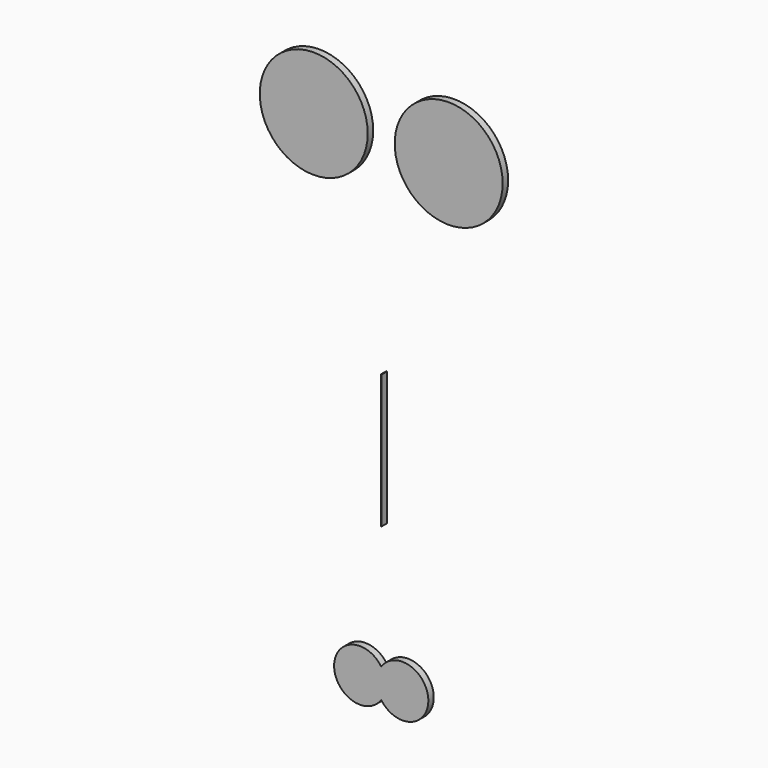
from build123d import *

# Parameters (mm, degrees)
F1_DEPTH = 25.4
F0_R     = 200.3467300335


with BuildPart() as f1:
    # F0 (on Front) → F1 (new body)
    with BuildSketch(Plane.XZ):
        with BuildLine():
            Line((1.5, -804.4493416321), (1.5, -308.3547353745))
            Line((1.5, -308.3547353745), (0, -308.3547353745))
            Line((0, -308.3547353745), (0, -804.4049214977))
            ThreePointArc((0, -804.4049214977), (0.7501190381, -804.4231118309), (1.5, -804.4493416321))
        make_face()
        with BuildLine():
            Line((0, -804.4049214977), (0, -308.3547353745))
            Line((0, -308.3547353745), (-1.5, -308.3547353745))
            Line((-1.5, -308.3547353745), (-1.5, -804.4493416321))
            ThreePointArc((-1.5, -804.4493416321), (-0.7501190381, -804.4231118309), (0, -804.4049214977))
        make_face()
    extrude(amount=F1_DEPTH)


with BuildPart() as f1b:
    # F0 (on Front) → F1, piece 2 (new body)
    with BuildSketch(Plane.XZ):
        with Locations((250.4261732101, 462.4638855457)):
            Circle(F0_R)
    extrude(amount=F1_DEPTH)


with BuildPart() as f1c:
    # F0 (on Front) → F1, piece 3 (new body)
    with BuildSketch(Plane.XZ):
        with BuildLine():
            ThreePointArc((0, -1371.6566112253), (12.592393534, -1345.7462755154), (16.9200763319, -1317.2649652732))
            ThreePointArc((16.9200763319, -1317.2649652732), (12.592393534, -1288.783655031), (0, -1262.8733193211))
            ThreePointArc((0, -1262.8733193211), (-16.9200763319, -1317.2649652732), (0, -1371.6566112253))
        make_face()
        with BuildLine():
            ThreePointArc((0, -1262.8733193211), (12.592393534, -1288.783655031), (16.9200763319, -1317.2649652732))
            ThreePointArc((16.9200763319, -1317.2649652732), (12.592393534, -1345.7462755154), (0, -1371.6566112253))
            ThreePointArc((0, -1371.6566112253), (107.4455570304, -1408.8216055954), (174.8485699083, -1317.2649652732))
            ThreePointArc((174.8485699083, -1317.2649652732), (107.4455570304, -1225.708324951), (0, -1262.8733193211))
        make_face()
        with BuildLine():
            ThreePointArc((0, -1371.6566112253), (-16.9200763319, -1317.2649652732), (0, -1262.8733193211))
            ThreePointArc((0, -1262.8733193211), (-174.8485699083, -1317.2649652732), (0, -1371.6566112253))
        make_face()
    extrude(amount=F1_DEPTH)


with BuildPart() as f1d:
    # F0 (on Front) → F1, piece 4 (new body)
    with BuildSketch(Plane.XZ):
        with Locations((-250.4261732101, 462.4638855457)):
            Circle(F0_R)
    extrude(amount=F1_DEPTH)


solid = Compound([f1.part, f1b.part, f1c.part, f1d.part])
